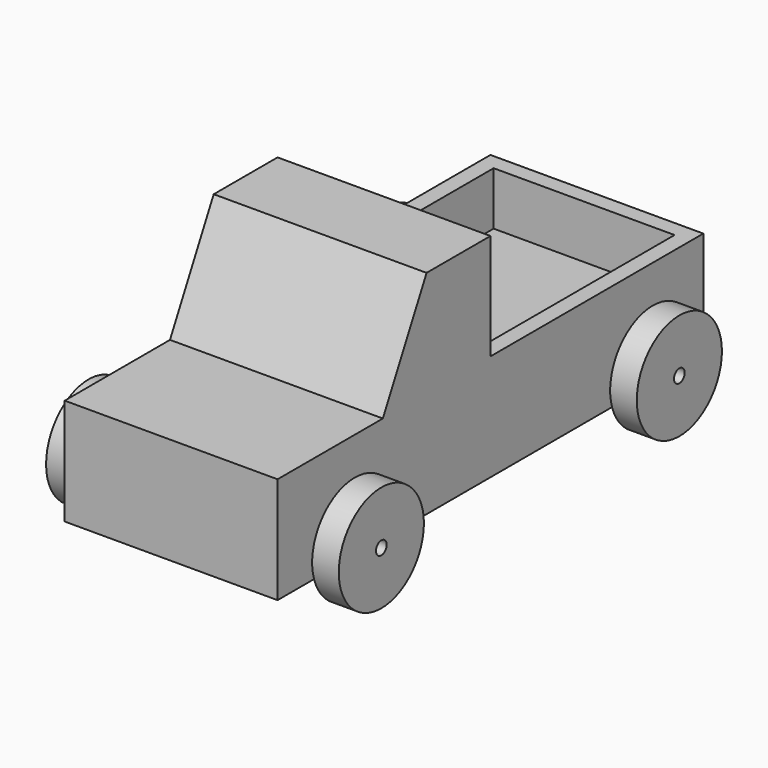
from build123d import *

# Parameters (mm, degrees)
F0_W      = 100
F0_H      = 20
F1_DEPTH  = 40
F2_R      = 2.5
F3_DEPTH  = 40.001
F4_R      = 2.5
F5_DEPTH  = 40.001
F7_DEPTH  = 40
F8_W      = 34
F8_H      = 44
F9_DEPTH  = 10
F10_R     = 1.25
F11_DEPTH = 42.5
F12_R     = 1.25
F13_DEPTH = 2.5
F14_R     = 1.25
F15_DEPTH = 42.5
F16_DEPTH = 2.5
F17_R     = 10
F17_R_2   = 1.25
F18_DEPTH = 5
F19_R     = 10
F19_R_2   = 1.25
F20_DEPTH = 5
F21_R     = 10
F21_R_2   = 1.25
F22_DEPTH = 5
F23_R     = 10
F23_R_2   = 1.25
F24_DEPTH = 5


with BuildPart() as f1:
    # F0 (on Right) → F1 (new body)
    with BuildSketch(Plane.YZ):
        Rectangle(F0_W, F0_H)
    extrude(amount=F1_DEPTH)

    # F2 (on face) → F3 (cut, through all)
    with BuildSketch(Plane.YZ.offset(40)):
        with Locations((35, -5)):
            Circle(F2_R)
    extrude(amount=-F3_DEPTH, mode=Mode.SUBTRACT)

    # F4 (on face) → F5 (cut, through all)
    with BuildSketch(Plane.YZ.offset(40)):
        with Locations((-35, -5)):
            Circle(F4_R)
    extrude(amount=-F5_DEPTH, mode=Mode.SUBTRACT)

    # F6 (on Right) → F7 (join)
    with BuildSketch(Plane.YZ):
        Polygon((-25.30775, 9.9211579347), (0, 9.9211651832), (0, 29.9211651832), (-15, 29.9211651832), align=None)
    extrude(amount=F7_DEPTH)

    # F8 (on face) → F9 (cut)
    with BuildSketch(Plane.XY.offset(10)):
        with Locations((20, 25)):
            Rectangle(F8_W, F8_H)
    extrude(amount=-F9_DEPTH, mode=Mode.SUBTRACT)


with BuildPart() as f11:
    # F10 (on face) → F11 (new body)
    with BuildSketch(Plane.YZ.offset(40)):
        with Locations((35, -5)):
            Circle(F10_R)
    extrude(amount=-F11_DEPTH)

    # F12 (on face) → F13 (join)
    with BuildSketch(Plane.YZ.offset(40)):
        with Locations((35, -5)):
            Circle(F12_R)
    extrude(amount=F13_DEPTH)


with BuildPart() as f15:
    # F14 (on face) → F15 (new body)
    with BuildSketch(Plane.YZ.offset(40)):
        with Locations((-35, -5)):
            Circle(F14_R)
    extrude(amount=-F15_DEPTH)

    # F16 (add): a face of the model
    f16_faces = [f15.faces().sort_by_distance(p)[0] for p in [
        (40, -35, -5),
    ]]
    extrude(f16_faces, amount=F16_DEPTH)

    # F17 (on face) → F18 (join)
    with BuildSketch(Plane.YZ.offset(42.5)):
        with Locations((-35, -5)):
            Circle(F17_R)
        with Locations((-35, -5)):
            Circle(F17_R_2, mode=Mode.SUBTRACT)
    extrude(amount=F18_DEPTH)


with BuildPart() as f20:
    # F19 (on face) → F20 (new body)
    with BuildSketch(Plane.YZ.offset(42.5)):
        with Locations((35, -5)):
            Circle(F19_R)
        with Locations((35, -5)):
            Circle(F19_R_2, mode=Mode.SUBTRACT)
    extrude(amount=F20_DEPTH)


with BuildPart() as f22:
    # F21 (on face) → F22 (new body)
    with BuildSketch(Plane(origin=(-2.5, 0, 0), x_dir=(0, -1, 0), z_dir=(-1, 0, 0))):
        with Locations((-35, -5)):
            Circle(F21_R)
        with Locations((-35, -5)):
            Circle(F21_R_2, mode=Mode.SUBTRACT)
    extrude(amount=F22_DEPTH)


with BuildPart() as f24:
    # F23 (on face) → F24 (new body)
    with BuildSketch(Plane(origin=(-2.5, 0, 0), x_dir=(0, -1, 0), z_dir=(-1, 0, 0))):
        with Locations((35, -5)):
            Circle(F23_R)
        with Locations((35, -5)):
            Circle(F23_R_2, mode=Mode.SUBTRACT)
    extrude(amount=F24_DEPTH)


solid = Compound([f1.part, f11.part, f15.part, f20.part, f22.part, f24.part])
